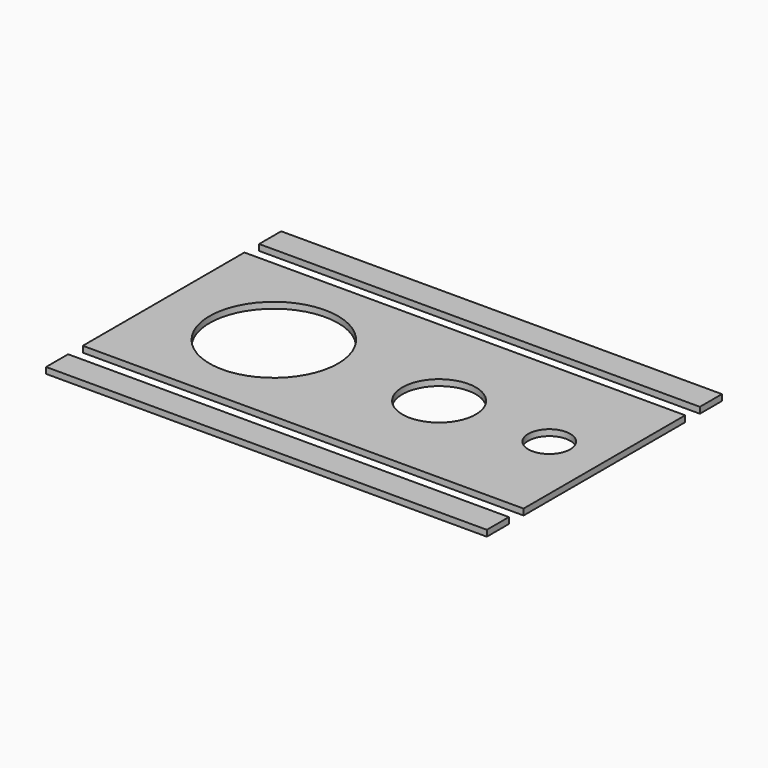
from build123d import *

# Parameters (mm, degrees)
F0_R     = 66.675
F0_R_2   = 73.025
F1_DEPTH = 6.35
F0_R_3   = 38.1
F0_R_4   = 21.771429
F2_DEPTH = 6.35


with BuildPart() as f1:
    # F0 (on Top) → F1 (new body)
    with BuildSketch(Plane.XY):
        Circle(F0_R)
        Circle(F0_R)
        Circle(F0_R)
        Circle(F0_R)
        Circle(F0_R)
        Circle(F0_R)
        Circle(F0_R)
        Circle(F0_R_2)
        Circle(F0_R, mode=Mode.SUBTRACT)
    extrude(amount=F1_DEPTH)

    # F0 (on Top) → F2 (join)
    with BuildSketch(Plane.XY):
        Polygon((342.900002, 104.775001), (-114.3, 104.775001), (-114.3, -104.774999), (342.900008, -104.774999), align=None)
        Circle(F0_R_2, mode=Mode.SUBTRACT)
        with Locations((171.45, 2e-06)):
            Circle(F0_R_3, mode=Mode.SUBTRACT)
        with Locations((285.75, 4e-06)):
            Circle(F0_R_4, mode=Mode.SUBTRACT)
        Polygon((342.900009, -123.824999), (-114.3, -123.824999), (-114.3, -152.399999), (104.922128, -152.399999), (342.90001, -152.399999), align=None)
        Polygon((107.95, 152.400001), (-114.3, 152.400001), (-114.3, 123.825001), (342.900001, 123.825001), (342.9, 152.400001), align=None)
    extrude(amount=F2_DEPTH)


solid = f1.part
